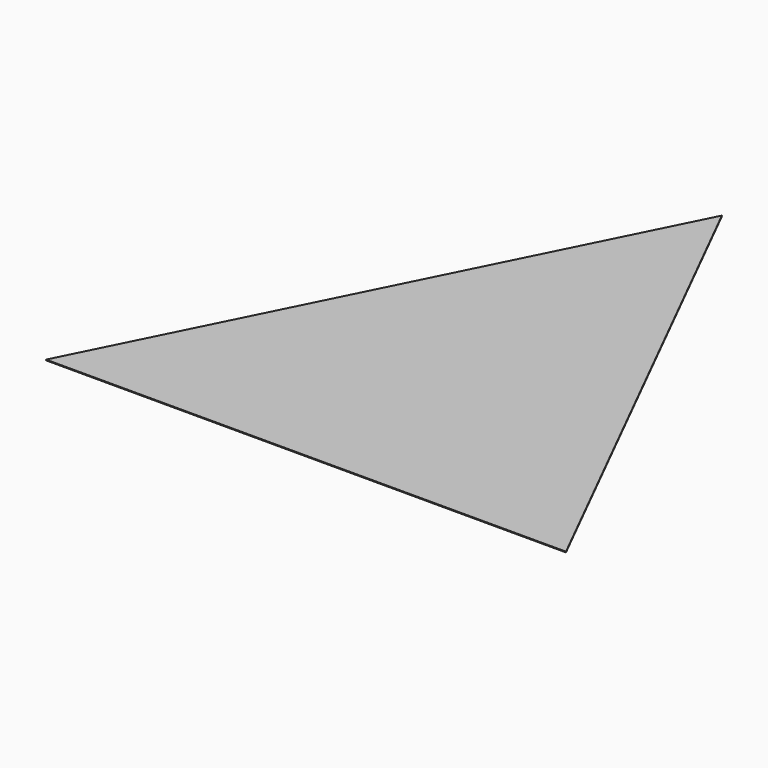
from build123d import *

# Parameters (mm, degrees)
PAD_DEPTH    = 1
PAD001_DEPTH = 1


with BuildPart() as part:
    # Sketch → Pad (new body)
    with BuildSketch(Plane.XY):
        Polygon((-350, 0), (0, 450), (350, 0), (0, 0), align=None)
    extrude(amount=PAD_DEPTH)

    # Sketch001 (on Face6 of Pad) → Pad001 (join)
    with BuildSketch(Plane.XY.offset(1)):
        Polygon((-350, 0), (0, 450), (350, 0), (0, 700), align=None)
    extrude(amount=-PAD001_DEPTH)


solid = part.part
